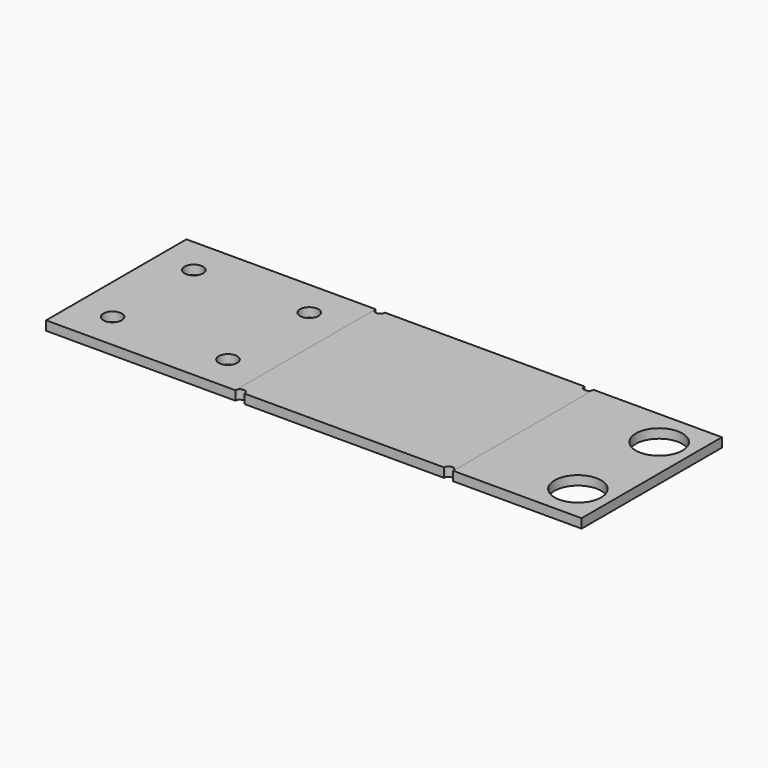
from build123d import *

# Parameters (mm, degrees)
F1_DEPTH = 60.325
F2_R     = 8.001
F3_DEPTH = 25.4
F4_R     = 3.175
F5_DEPTH = 25.4
F6_R     = 3.175
F7_DEPTH = 25.4
F9_DEPTH = 25.4


with BuildPart() as f1:
    # F0 (on Front) → F1 (new body)
    with BuildSketch(Plane.XZ):
        Polygon((-4.7625, 3.175), (-69.85, 3.175), (-69.85, 0), (-4.7625, 0), (70.1675, -0.0282659046), (114.3, -0.0282659046), (114.3, 3.1467340954), (70.1675, 3.1467340954), align=None)
    extrude(amount=F1_DEPTH)

    # F2 (on face) → F3 (cut)
    with BuildSketch(Plane.XY.offset(3.1467340954)):
        with Locations((102.87, -12.7)):
            Circle(F2_R)
        with Locations((102.87, -47.625)):
            Circle(F2_R)
    extrude(amount=-F3_DEPTH, mode=Mode.SUBTRACT)

    # F4 (on face) → F5 (cut)
    with BuildSketch(Plane.XY.offset(3.175)):
        with Locations((-57.15, -12.7)):
            Circle(F4_R)
        with Locations((-57.15, -12.7)):
            Circle(F4_R)
        with Locations((-57.15, -47.625)):
            Circle(F4_R)
        with Locations((-57.15, -47.625)):
            Circle(F4_R)
    extrude(amount=-F5_DEPTH, mode=Mode.SUBTRACT)

    # F6 (on face) → F7 (cut)
    with BuildSketch(Plane.XY.offset(3.175)):
        with Locations((-17.4625, -12.7)):
            Circle(F6_R)
        with Locations((-17.4625, -47.625)):
            Circle(F6_R)
    extrude(amount=-F7_DEPTH, mode=Mode.SUBTRACT)

    # F8 (on face) → F9 (cut)
    with BuildSketch(Plane(origin=(0.0011970299, 0, 3.1732029867), x_dir=(0.9999999288, 0, -0.0003772308), z_dir=(0.0003772308, 0, 0.9999999288))):
        with BuildLine():
            ThreePointArc((-1.5886973689, -60.325), (-3.1761973689, -58.7375), (-4.7636973689, -60.325))
            Line((-4.7636973689, -60.325), (-1.5886973689, -60.325))
        make_face()
        with BuildLine():
            ThreePointArc((70.1663079625, -60.325), (68.5788079625, -58.7375), (66.9913079625, -60.325))
            Line((66.9913079625, -60.325), (70.1663079625, -60.325))
        make_face()
        with BuildLine():
            Line((70.1663079625, 0), (66.9913079625, 0))
            ThreePointArc((66.9913079625, 0), (68.5788079625, -1.5875), (70.1663079625, 0))
        make_face()
        with BuildLine():
            Line((-1.5886973689, 0), (-4.7636973689, 0))
            ThreePointArc((-4.7636973689, 0), (-3.1761973689, -1.5875), (-1.5886973689, 0))
        make_face()
    extrude(amount=-F9_DEPTH, mode=Mode.SUBTRACT)


solid = f1.part
